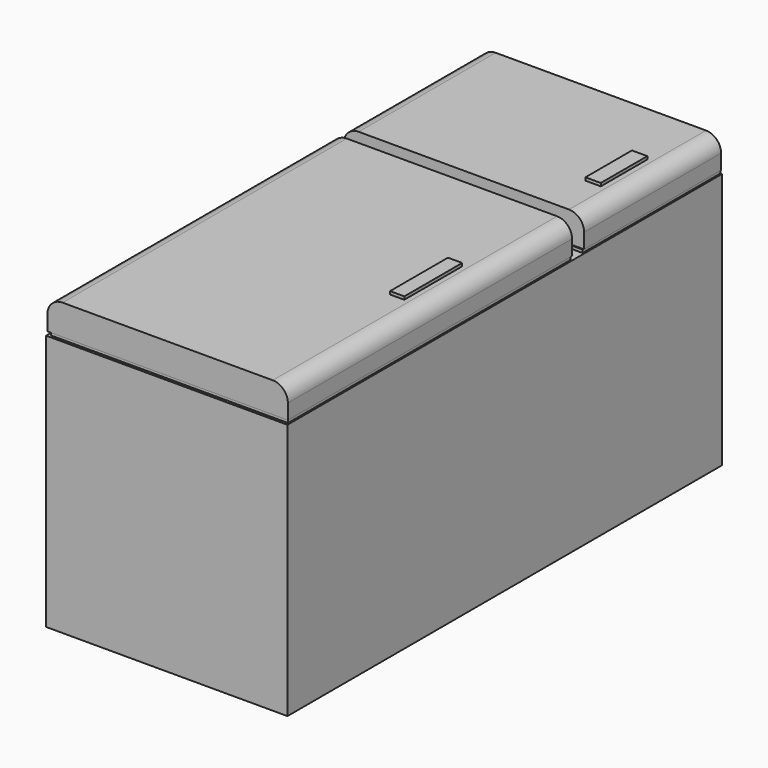
from build123d import *

# Parameters (mm, degrees)
SKETCH_W      = 800
SKETCH_H      = 850
PAD_DEPTH     = 1800
SKETCH001_W   = 786.271793
SKETCH001_H   = 1170.513306
SKETCH001_W_2 = 794.914795
SKETCH001_H_2 = 570.904419
PAD001_DEPTH  = 10
SKETCH002_W   = 796.943639
SKETCH002_H   = 1177.626709
SKETCH002_W_2 = 797.164246
SKETCH002_H_2 = 567.423706
PAD002_DEPTH  = 100
FILLET_R      = 50
SKETCH003_W   = 50.879883
SKETCH003_H   = 192.616211
SKETCH003_W_2 = 47.245606
SKETCH003_H_2 = 239.861694
PAD003_DEPTH  = 10


with BuildPart() as part:
    # Sketch → Pad (new body)
    with BuildSketch(Plane.XZ):
        with Locations((400, 425)):
            Rectangle(SKETCH_W, SKETCH_H)
    extrude(amount=PAD_DEPTH)

    # Sketch001 (on Face3 of Pad) → Pad001 (join)
    with BuildSketch(Plane(origin=(0, 0, 850), x_dir=(-1, 0, 0), z_dir=(0, 0, 1))):
        with Locations((-401.778898, 1205.970154)):
            Rectangle(SKETCH001_W, SKETCH001_H)
        with Locations((-397.457397, 285.452209)):
            Rectangle(SKETCH001_W_2, SKETCH001_H_2)
    extrude(amount=PAD001_DEPTH)

    # Sketch002 (on Face6 of Pad001) → Pad002 (join)
    with BuildSketch(Plane(origin=(0, 0, 860), x_dir=(-1, 0, 0), z_dir=(0, 0, 1))):
        with Locations((-397.912763, 1205.032958)):
            Rectangle(SKETCH002_W, SKETCH002_H)
        with Locations((-398.582123, 283.711853)):
            Rectangle(SKETCH002_W_2, SKETCH002_H_2)
    extrude(amount=PAD002_DEPTH)

    # Fillet
    fillet_edges = [part.edges().sort_by_distance(p)[0] for p in [
        (0, -283.711853, 960),
        (797.164246, -283.711853, 960),
        (-0.559056, -1205.032958, 960),
        (796.384583, -1205.032958, 960),
    ]]
    fillet(fillet_edges, radius=FILLET_R)

    # Sketch003 (on Face27 of Fillet) → Pad003 (join)
    with BuildSketch(Plane(origin=(0, 0, 960), x_dir=(-1, 0, 0), z_dir=(0, 0, 1))):
        with Locations((-704.998901, 318.516937)):
            Rectangle(SKETCH003_W, SKETCH003_H)
        with Locations((-706.816284, 1108.97052)):
            Rectangle(SKETCH003_W_2, SKETCH003_H_2)
    extrude(amount=PAD003_DEPTH)


solid = part.part
